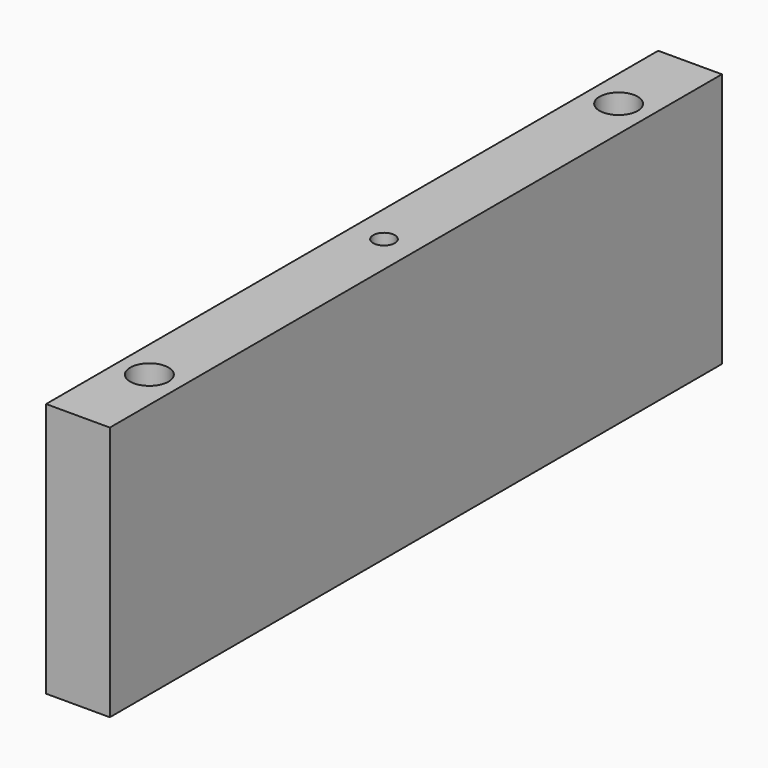
from build123d import *

# Parameters (mm, degrees)
F0_W     = 25
F0_H     = 300
F0_R     = 7.5
F0_R_2   = 4.25
F1_DEPTH = 50


with BuildPart() as f1:
    # F0 (on Top) → F1 (new body, symmetric)
    with BuildSketch(Plane.XY):
        Rectangle(F0_W, F0_H)
        with Locations((0, -115)):
            Circle(F0_R, mode=Mode.SUBTRACT)
        Circle(F0_R_2, mode=Mode.SUBTRACT)
        with Locations((0, 115)):
            Circle(F0_R, mode=Mode.SUBTRACT)
    extrude(amount=F1_DEPTH, both=True)


solid = f1.part
